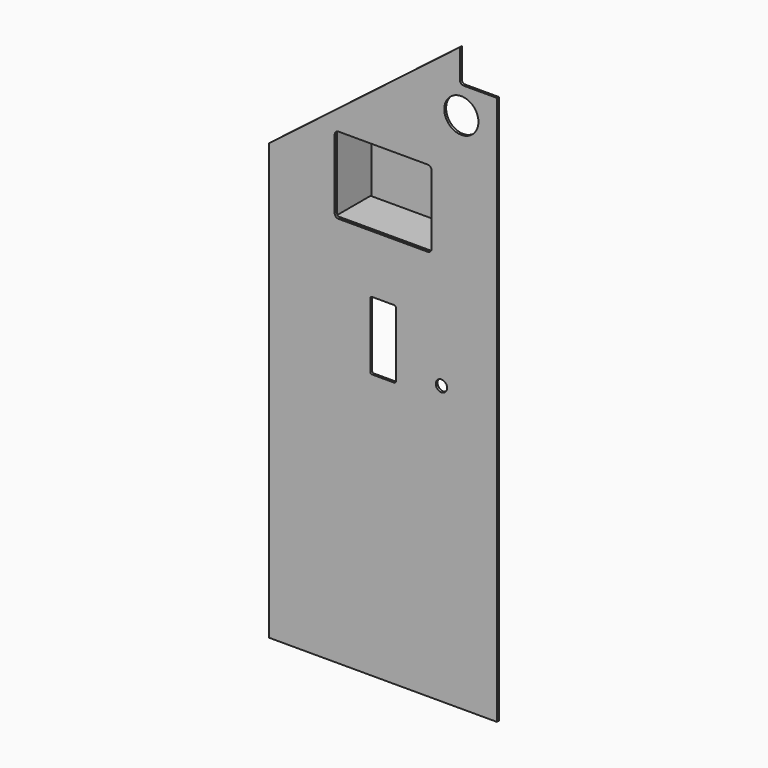
from build123d import *

# Parameters (mm, degrees)
F0_R      = 20
F0_R_2    = 60
F1_DEPTH  = 8
F2_W      = 350
F2_H      = 151
F3_DEPTH  = 8
F6_D      = 34
F7_W      = 151
F7_H      = 264
F8_DEPTH  = 8
F11_W     = 350
F11_H     = 8
F12_DEPTH = 8


with BuildPart() as f1:
    # F0 (on Front) → F1 (new body)
    with BuildSketch(Plane.XZ):
        with BuildLine():
            Line((0, 1530), (0, 0))
            Line((0, 0), (800, 0))
            Line((800, 0), (800, 1930))
            Line((800, 1930), (683, 1930))
            ThreePointArc((683, 1930), (673.807612, 1933.807612), (670, 1943))
            Line((670, 1943), (670, 2045))
            Line((670, 2045), (0, 1530))
        make_face()
        with Locations((605, 976)):
            Circle(F0_R, mode=Mode.SUBTRACT)
        with BuildLine():
            ThreePointArc((230, 1632), (233.807612, 1641.192388), (243, 1645))
            Line((243, 1645), (557, 1645))
            ThreePointArc((557, 1645), (566.192388, 1641.192388), (570, 1632))
            Line((570, 1632), (570, 1388))
            ThreePointArc((570, 1388), (566.192388, 1378.807612), (557, 1375))
            Line((557, 1375), (243, 1375))
            ThreePointArc((243, 1375), (233.807612, 1378.807612), (230, 1388))
            Line((230, 1388), (230, 1632))
        make_face(mode=Mode.SUBTRACT)
        with BuildLine():
            ThreePointArc((355, 1166), (356.757359, 1170.242641), (361, 1172))
            Line((361, 1172), (439, 1172))
            ThreePointArc((439, 1172), (443.242641, 1170.242641), (445, 1166))
            Line((445, 1166), (445, 938))
            ThreePointArc((445, 938), (443.242641, 933.757359), (439, 932))
            Line((439, 932), (361, 932))
            ThreePointArc((361, 932), (356.757359, 933.757359), (355, 938))
            Line((355, 938), (355, 1166))
        make_face(mode=Mode.SUBTRACT)
        with Locations((675, 1835)):
            Circle(F0_R_2, mode=Mode.SUBTRACT)
    extrude(amount=F1_DEPTH)


with BuildPart() as f3:
    # F2 (on face) → F3 (new body)
    with BuildSketch(Plane.XY.offset(1375)):
        with Locations((400, 78.5)):
            Rectangle(F2_W, F2_H)
    extrude(amount=-F3_DEPTH)


with BuildPart() as f4_1:
    # F4: copy of F3
    add(f3.part.moved(Location((0, 0, 278))))

    # F6 (through all)
    with Locations(Plane(origin=(0, 0, 1645), x_dir=(1, 0, 0), z_dir=(0, 0, -1))):
        with Locations((400, -88)):
            Hole(F6_D / 2)


with BuildPart() as f8:
    # F7 (on face) → F8 (new body)
    with BuildSketch(Plane.YZ.offset(230)):
        with Locations((78.5, 1510)):
            Rectangle(F7_W, F7_H)
    extrude(amount=-F8_DEPTH)


with BuildPart() as f10_1:
    # F10: instance of F8
    add(f8.part.mirror(Plane(origin=(400, -4, 1510), x_dir=(0, 1, 0), z_dir=(1, 0, 0))))


with BuildPart() as f12:
    # F11 (on face) → F12 (new body)
    with BuildSketch(Plane(origin=(0, 154, 0), x_dir=(-1, 0, 0), z_dir=(0, 1, 0))):
        Polygon((-222, 1653), (-578, 1653), (-578, 1367), (-575, 1367), (-575, 1375), (-225, 1375), (-225, 1367), (-222, 1367), align=None)
        with Locations((-400, 1371)):
            Rectangle(F11_W, F11_H)
    extrude(amount=F12_DEPTH)


solid = Compound([f1.part, f3.part, f4_1.part, f8.part, f10_1.part, f12.part])
